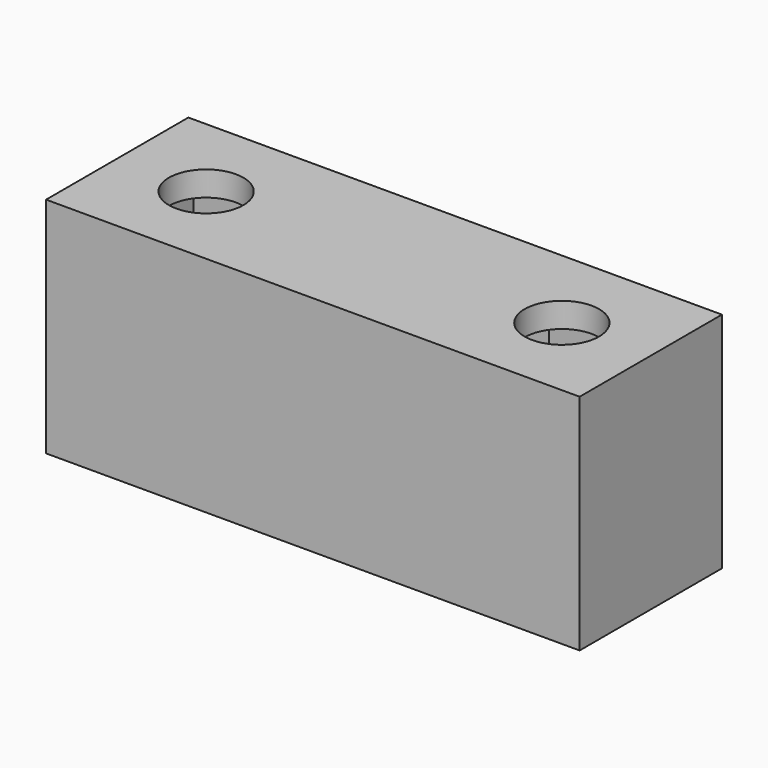
from build123d import *

# Parameters (mm, degrees)
F0_W     = 14.33
F0_H     = 14.33
F0_W_2   = 10.33
F0_H_2   = 10.33
F0_W_3   = 6.33
F0_H_3   = 6.33
F1_DEPTH = 2
F2_W     = 10.33
F2_H     = 10.33
F3_DEPTH = 14
F4_R     = 3
F5_DEPTH = 2
F6_W     = 0.835
F6_H     = 12
F6_W_2   = 10.33
F7_DEPTH = 6


with BuildPart() as f1:
    # F0 (on Top) → F1 (new body)
    with BuildSketch(Plane.XY):
        with Locations((-14.33, 0)):
            Rectangle(F0_W, F0_H)
        with Locations((-14.33, 0)):
            Rectangle(F0_W_2, F0_H_2, mode=Mode.SUBTRACT)
        Rectangle(F0_W, F0_H)
        Rectangle(F0_W_2, F0_H_2, mode=Mode.SUBTRACT)
        Rectangle(F0_W_2, F0_H_2)
        Rectangle(F0_W_3, F0_H_3, mode=Mode.SUBTRACT)
        Rectangle(F0_W_3, F0_H_3)
        with Locations((14.33, 0)):
            Rectangle(F0_W, F0_H)
        with Locations((14.33, 0)):
            Rectangle(F0_W_2, F0_H_2, mode=Mode.SUBTRACT)
    extrude(amount=F1_DEPTH)

    # F2 (on face) → F3 (join)
    with BuildSketch(Plane.XY.offset(2)):
        Polygon((-7.165, 7.165), (-21.495, 7.165), (-21.495, -7.165), (-7.165, -7.165), (7.165, -7.165), (21.495, -7.165), (21.495, 7.165), (7.165, 7.165), align=None)
        with Locations((-14.33, 0)):
            Rectangle(F2_W, F2_H, mode=Mode.SUBTRACT)
        Rectangle(F2_W, F2_H, mode=Mode.SUBTRACT)
        with Locations((14.33, 0)):
            Rectangle(F2_W, F2_H, mode=Mode.SUBTRACT)
    extrude(amount=F3_DEPTH)

    # F4 (on face) → F5 (join)
    with BuildSketch(Plane.XY.offset(16)):
        Polygon((21.495, 7.165), (7.165, 7.165), (-7.165, 7.165), (-21.495, 7.165), (-21.495, -7.165), (-7.165, -7.165), (7.165, -7.165), (21.495, -7.165), align=None)
        with Locations((-14.33, 0)):
            Circle(F4_R, mode=Mode.SUBTRACT)
        with Locations((14.33, 0)):
            Circle(F4_R, mode=Mode.SUBTRACT)
    extrude(amount=F5_DEPTH)

    # F6 (on face) → F7 (cut)
    with BuildSketch(Plane.YZ.offset(9.165)):
        with Locations((-5.5825, 9)):
            Rectangle(F6_W, F6_H)
        with Locations((0, 9)):
            Rectangle(F6_W_2, F6_H)
        with Locations((5.5825, 9)):
            Rectangle(F6_W, F6_H)
    extrude(amount=-F7_DEPTH, mode=Mode.SUBTRACT)


solid = f1.part
